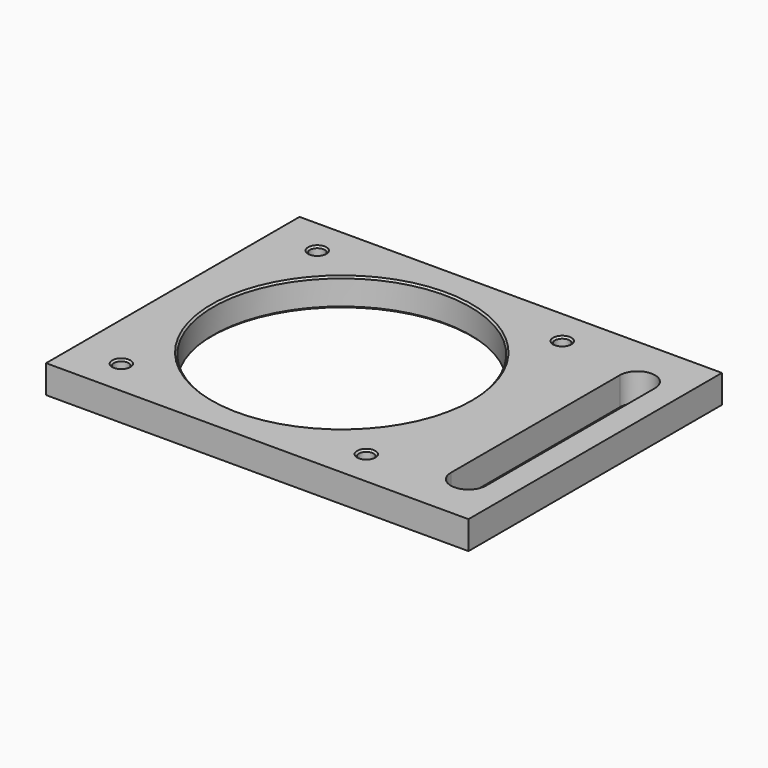
from build123d import *

# Parameters (mm, degrees)
F0_R     = 2.1
F0_R_2   = 36.5
F1_DEPTH = 8
F2_SIZE  = 0.5


with BuildPart() as f1:
    # F0 (on Top) → F1 (new body)
    with BuildSketch(Plane.XY):
        Polygon((-37, 45), (-132, 45), (-132, -45), (-37, -45), (-12, -45), (-12, 0), (-12, 45), align=None)
        with Locations((-118.8, -34.8)):
            Circle(F0_R, mode=Mode.SUBTRACT)
        with Locations((-49.2, -34.8)):
            Circle(F0_R, mode=Mode.SUBTRACT)
        with Locations((-84, 0)):
            Circle(F0_R_2, mode=Mode.SUBTRACT)
        with Locations((-118.8, 34.8)):
            Circle(F0_R, mode=Mode.SUBTRACT)
        with BuildLine():
            ThreePointArc((-29, 30), (-24, 35), (-19, 30))
            Line((-19, 30), (-19, -30))
            ThreePointArc((-19, -30), (-24, -35), (-29, -30))
            Line((-29, -30), (-29, 30))
        make_face(mode=Mode.SUBTRACT)
        with Locations((-49.2, 34.8)):
            Circle(F0_R, mode=Mode.SUBTRACT)
    extrude(amount=F1_DEPTH)

    # F2
    f2_edges = [f1.edges().sort_by_distance(p)[0] for p in [
        (-47.5, 0, 4),
        (-120.5, 0, 0),
        (-120.5, 0, 8),
        (-116.7, -34.8, 4),
        (-120.9, -34.8, 0),
        (-120.9, -34.8, 8),
        (-116.7, 34.8, 4),
        (-120.9, 34.8, 0),
        (-120.9, 34.8, 8),
        (-47.1, 34.8, 4),
        (-51.3, 34.8, 0),
        (-51.3, 34.8, 8),
        (-47.1, -34.8, 4),
        (-51.3, -34.8, 0),
        (-51.3, -34.8, 8),
    ]]
    chamfer(f2_edges, length=F2_SIZE)


solid = f1.part
